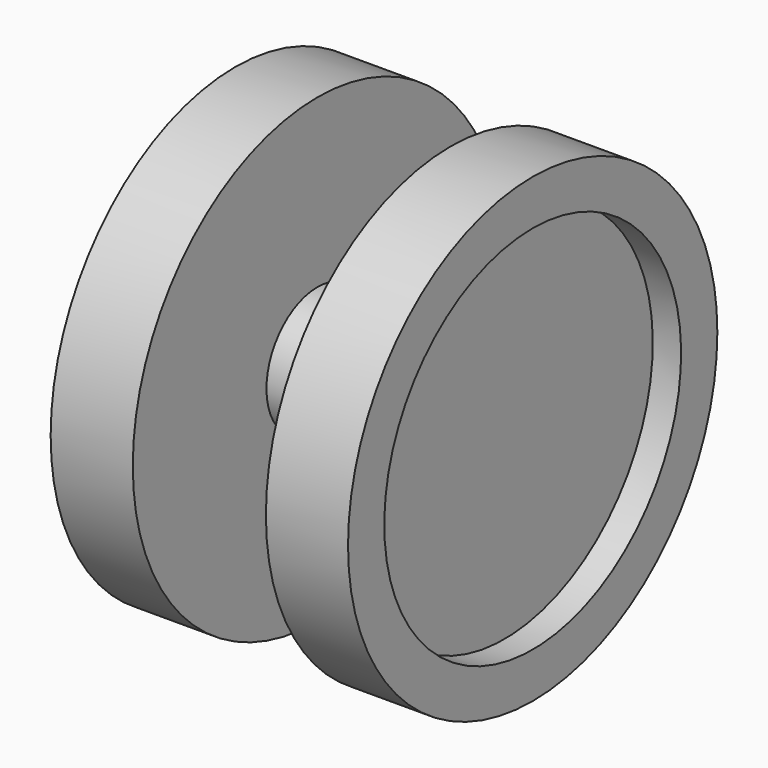
from build123d import *

# Parameters (mm, degrees)
F0_W   = 2.8780568391
F0_H   = 4.6048928052
F0_W_2 = 6.7634354345
F0_H_2 = 6.4756297506


with BuildPart() as f1:
    # F0 (on Front) → F1 (revolve)
    with BuildSketch(Plane.XZ):
        Polygon((-12.2317448258, 0), (-6.7634354345, 0), (-6.7634354345, 6.4756297506), (-6.7634354345, 23.4561692923), (-12.2317448258, 23.4561692923), (-12.2317448258, 18.8512764871), align=None)
        with Locations((-13.6707732454, 21.1537228897)):
            Rectangle(F0_W, F0_H)
        with Locations((-3.3817177173, 3.2378148753)):
            Rectangle(F0_W_2, F0_H_2)
        with Locations((3.3817177173, 3.2378148753)):
            Rectangle(F0_W_2, F0_H_2)
        Polygon((6.7634354345, 6.4756297506), (6.7634354345, 0), (12.2317448258, 0), (12.2317448258, 18.8512764871), (12.2317448258, 23.4561692923), (6.7634354345, 23.4561692923), align=None)
        with Locations((13.6707732454, 21.1537228897)):
            Rectangle(F0_W, F0_H)
    revolve(axis=Axis((4.275970161, 0, 0), (1, 0, 0)))


solid = f1.part
